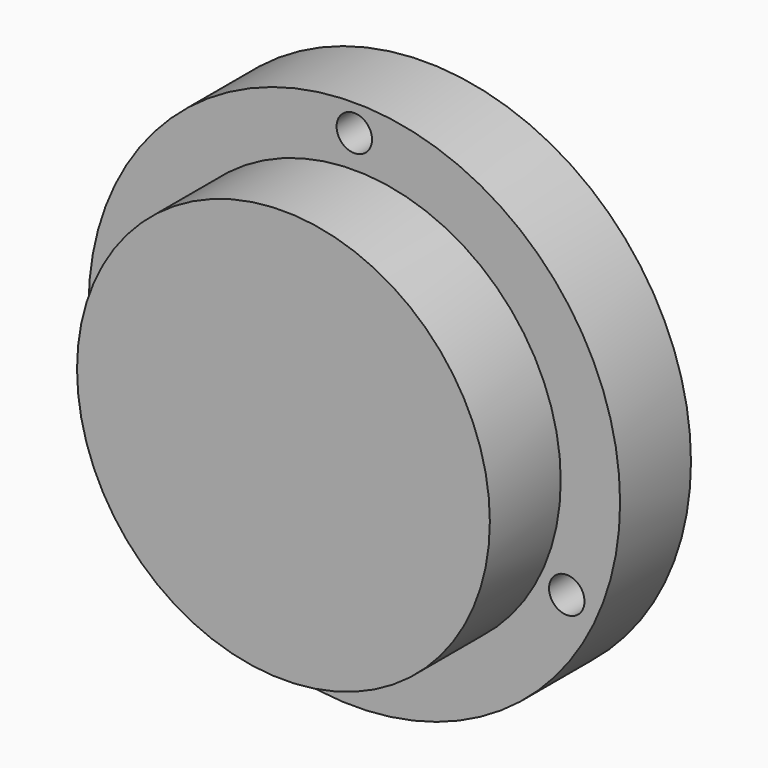
from build123d import *

# Parameters (mm, degrees)
F0_R     = 19.05
F1_DEPTH = 6.35
F3_R     = 14.7955
F4_DEPTH = 6.35
F6_D     = 2.54


with BuildPart() as f1:
    # F0 (on Front) → F1 (new body)
    with BuildSketch(Plane.XZ):
        Circle(F0_R)
    extrude(amount=F1_DEPTH)

    # F3 (on offset) → F4 (join)
    with BuildSketch(Plane.XZ.offset(6.35)):
        Circle(F3_R)
    extrude(amount=F4_DEPTH)

    # F6 (through all)
    with Locations(Plane.XZ.offset(6.35)):
        with Locations((0, 17.124727), (15.2271, -7.064389), (-15.506332, -7.064389)):
            Hole(F6_D / 2)


solid = f1.part
